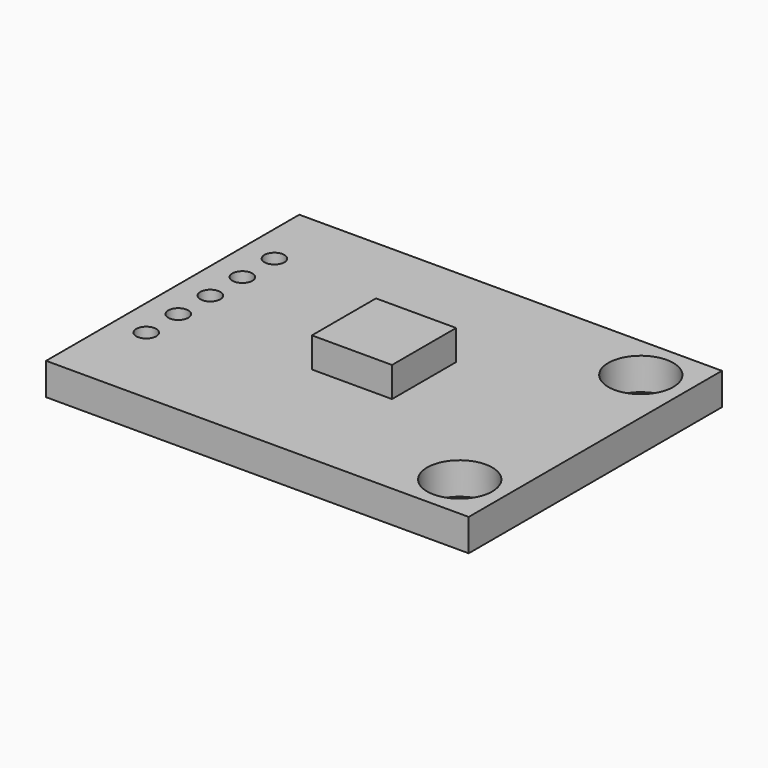
from build123d import *

# Parameters (mm, degrees)
F0_W     = 21.1
F0_H     = 15.8
F1_DEPTH = 1.6
F2_R     = 1.625
F3_DEPTH = 25
F4_W     = 4
F4_H     = 4
F5_DEPTH = 1.5
F6_R     = 0.5
F7_DEPTH = 25


with BuildPart() as f1:
    # F0 (on Top) → F1 (new body)
    with BuildSketch(Plane.XY):
        Rectangle(F0_W, F0_H)
    extrude(amount=F1_DEPTH)

    # F2 (on face) → F3 (cut)
    with BuildSketch(Plane.XY.offset(1.6)):
        with Locations((8.3, 5.65)):
            Circle(F2_R)
        with Locations((8.3, -5.65)):
            Circle(F2_R)
    extrude(amount=-F3_DEPTH, mode=Mode.SUBTRACT)

    # F4 (on face) → F5 (join)
    with BuildSketch(Plane.XY.offset(1.6)):
        Rectangle(F4_W, F4_H)
    extrude(amount=F5_DEPTH)

    # F6 (on face) → F7 (cut)
    with BuildSketch(Plane.XY.offset(1.6)):
        with Locations((-8.989307, 4.4)):
            Circle(F6_R)
        with Locations((-8.989307, 2.4)):
            Circle(F6_R)
        with Locations((-8.989307, 0.4)):
            Circle(F6_R)
        with Locations((-8.989307, -1.6)):
            Circle(F6_R)
        with Locations((-8.989307, -3.6)):
            Circle(F6_R)
    extrude(amount=-F7_DEPTH, mode=Mode.SUBTRACT)


solid = f1.part
